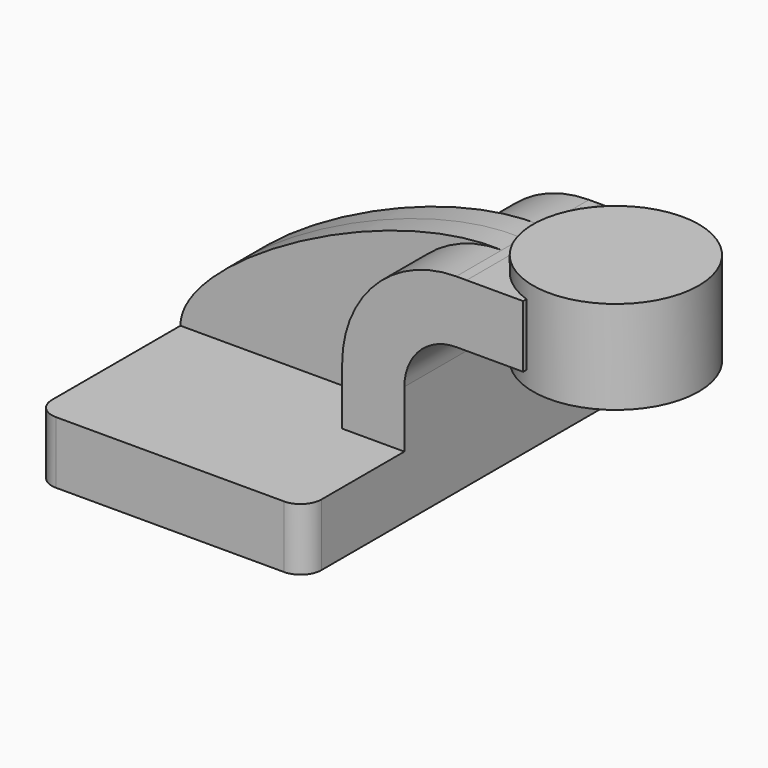
from build123d import *

# Parameters (mm, degrees)
F1_DEPTH = 63.5
F2_DEPTH = 25.4
F3_DEPTH = 7.9375
F0_W     = 25.4
F0_H     = 28.575
F5_R     = 6.35


with BuildPart() as f1:
    # F0 (on Front) → F1 (new body, symmetric)
    with BuildSketch(Plane.XZ):
        Polygon((22.225, 9.525), (-41.275, 9.525), (-41.275, -9.525), (41.275, -9.525), (41.275, 9.525), align=None)
    extrude(amount=F1_DEPTH, both=True)

    # F0 (on Front) → F2 (join, symmetric)
    with BuildSketch(Plane.XZ):
        with BuildLine():
            Line((22.225, 27.000148), (22.225, 9.525))
            Line((22.225, 9.525), (41.275, 9.525))
            Line((41.275, 9.525), (41.275, 27.000148))
            ThreePointArc((41.275, 27.000148), (45.924666, 38.225454), (57.14996, 42.875148))
            Line((57.14996, 42.875148), (60.325, 42.875156))
            Line((60.325, 42.875156), (60.325, 61.925156))
            Line((60.325, 61.925156), (57.149911, 61.925148))
            ThreePointArc((57.149911, 61.925148), (32.454264, 51.695821), (22.225, 27.000148))
        make_face()
        Polygon((77.666241, 61.9252), (60.325, 61.925156), (60.325, 42.875156), (77.66629, 42.8752), align=None)
    extrude(amount=F2_DEPTH, both=True)

    # F0 (on Front) → F3 (join, symmetric)
    with BuildSketch(Plane.XZ):
        with BuildLine():
            add(Edge.make_bspline(
                [(-41.275, 9.525), (-41.347746, 28.786404), (20.412168, 63.539438), (57.149911, 61.925148)],
                knots=[0, 0, 0, 0, 111.504433, 111.504433, 111.504433, 111.504433], degree=3))
            Line((-41.275, 9.525), (22.225, 9.525))
            Line((22.225, 9.525), (22.225, 27.000148))
            ThreePointArc((22.225, 27.000148), (32.454264, 51.695821), (57.149911, 61.925148))
        make_face()
    extrude(amount=F3_DEPTH, both=True)

    # F0 (on Front) → F4 (revolve)
    with BuildSketch(Plane.XZ):
        with Locations((98.425, 52.3875)):
            Rectangle(F0_W, F0_H)
    revolve(axis=Axis((85.725, 0, 52.3875), (0, 0, -1)))

    # F5
    f5_edges = [f1.edges().sort_by_distance(p)[0] for p in [
        (41.275, -63.5, 0),
        (-41.275, -63.5, 0),
        (41.275, 63.5, 0),
        (-41.275, 63.5, 0),
    ]]
    fillet(f5_edges, radius=F5_R)


solid = f1.part
